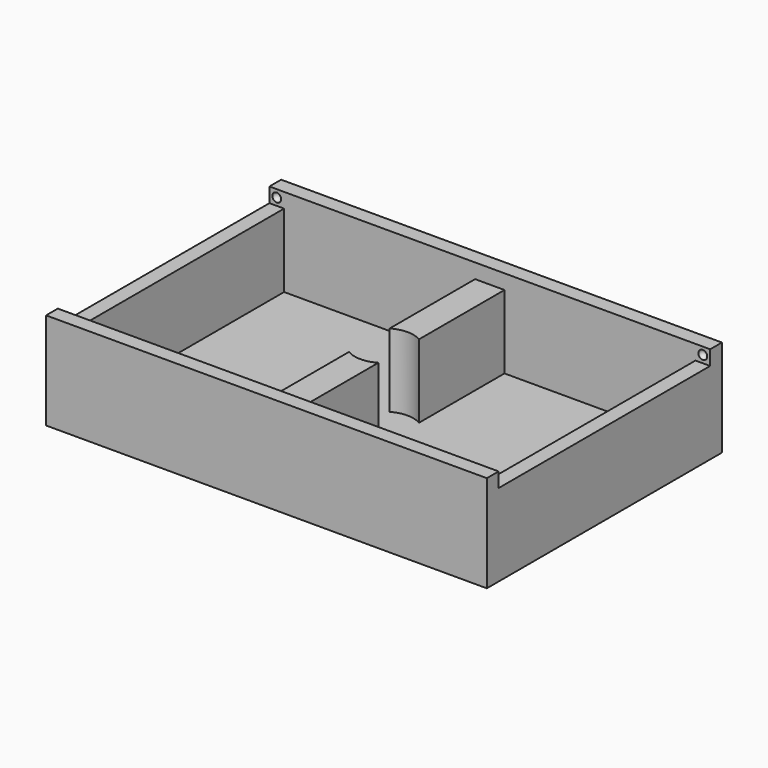
from build123d import *

# Parameters (mm, degrees)
F0_W     = 150
F0_H     = 100
F1_DEPTH = 33
F2_W     = 65
F2_H     = 90
F3_DEPTH = 30
F4_W     = 5
F4_H     = 90
F5_DEPTH = 5
F7_R     = 10
F8_DEPTH = 25


with BuildPart() as f1:
    # F0 (on Top) → F1 (new body)
    with BuildSketch(Plane.XY):
        Rectangle(F0_W, F0_H)
    extrude(amount=F1_DEPTH)

    # F2 (on face) → F3 (cut)
    with BuildSketch(Plane.XY.offset(33)):
        with Locations((-37.5, 0)):
            Rectangle(F2_W, F2_H)
        with Locations((37.5, 0)):
            Rectangle(F2_W, F2_H)
    extrude(amount=-F3_DEPTH, mode=Mode.SUBTRACT)

    # F4 (on face) → F5 (cut)
    with BuildSketch(Plane.XY.offset(33)):
        with Locations((-72.5, 0)):
            Rectangle(F4_W, F4_H)
        with Locations((-2.5, 0)):
            Rectangle(F4_W, F4_H)
        with Locations((2.5, 0)):
            Rectangle(F4_W, F4_H)
        with Locations((72.5, 0)):
            Rectangle(F4_W, F4_H)
    extrude(amount=-F5_DEPTH, mode=Mode.SUBTRACT)

    # F7 (on face) → F8 (cut, through all)
    with BuildSketch(Plane.XY.offset(28)):
        Circle(F7_R)
    extrude(amount=-F8_DEPTH, mode=Mode.SUBTRACT)

    # F6 (on face) → F9 (revolve, cut)
    with BuildSketch(Plane.XZ.offset(-45)):
        with BuildLine():
            Line((-72.5, 29), (-72.5, 32))
            ThreePointArc((-72.5, 32), (-74, 30.5), (-72.5, 29))
        make_face()
    revolve(axis=Axis((-72.5, 45, 30.5), (0, 0, -1)), mode=Mode.SUBTRACT)

    # F10: F1 across plane


with BuildPart() as f1_1:
    add(f1.part)
    add(f1.part.mirror(Plane.YZ), mode=Mode.INTERSECT)

    # F11: F1 across plane


with BuildPart() as f1_2:
    add(f1_1.part)
    add(f1_1.part.mirror(Plane.XZ), mode=Mode.INTERSECT)


solid = f1_2.part
